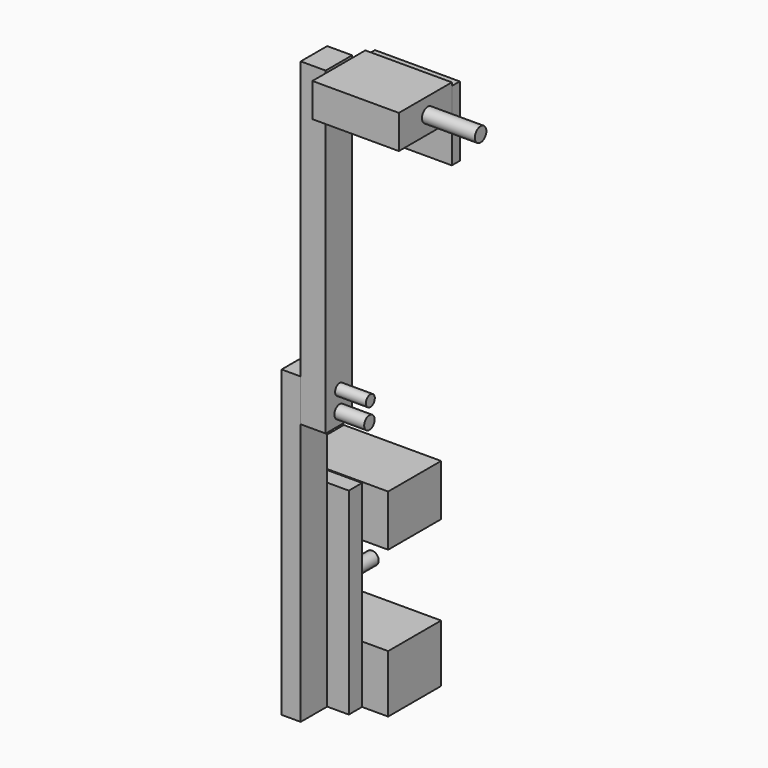
from build123d import *

# Parameters (mm, degrees)
F0_W      = 37.3197961599
F0_H      = 22.118806839
F2_DEPTH  = 25.4
F0_H_2    = 19.6611620486
F1_W      = 15.6561098993
F1_H      = 75.6408572197
F3_DEPTH  = 6.35
F7_W      = 20.2726237476
F7_H      = 2.7644485235
F6_W      = 33.1733580679
F6_H      = 12.9007548094
F9_DEPTH  = 12.7
F4_W      = 7.3194480501
F4_H      = 116.6530176997
F10_DEPTH = 12.7
F5_W      = 9.5603708178
F5_H      = 122.5571036339
F11_DEPTH = 12.7
F12_W     = 11.7970732972
F12_H     = 2.1449252963
F13_W     = 11.4395851269
F13_H     = 2.5024116039
F19_W     = 32.5313238427
F19_H     = 26.8115252256
F20_DEPTH = 3.81
F21_W     = 15.1931997389
F21_H     = 2.5024116039


with BuildPart() as f2:
    # F0 (on Front) → F2 (new body)
    with BuildSketch(Plane.XZ):
        with Locations((-0.3640959039, 11.0594034195)):
            Rectangle(F0_W, F0_H)
    extrude(amount=-F2_DEPTH)


with BuildPart() as f2b:
    # F0 (on Front) → F2, piece 2 (new body)
    with BuildSketch(Plane.XZ):
        with Locations((-0.3640959039, 66.174371168)):
            Rectangle(F0_W, F0_H_2)
    extrude(amount=-F2_DEPTH)


with BuildPart() as f3:
    # F1 (on Front) → F3 (new body)
    with BuildSketch(Plane.XZ):
        with Locations((0.4551196471, 37.8204286098)):
            Rectangle(F1_W, F1_H)
    extrude(amount=F3_DEPTH)

    # F21 (on Right) → F22 (revolve)
    with BuildSketch(Plane.YZ):
        with Locations((7.5965998694, 42.6899790764)):
            Rectangle(F21_W, F21_H)
    revolve(axis=Axis((0, 7.5965998694, 41.4387732744), (0, 1, 0)))


with BuildPart() as f8:
    # F7 (on Front) → F8 (revolve)
    with BuildSketch(Plane.XZ):
        with Locations((53.7915173918, 215.2351364493)):
            Rectangle(F7_W, F7_H)
    revolve(axis=Axis((53.7915173918, 0, 216.6173607111), (1, 0, 0)))


with BuildPart() as f9:
    # F6 (on Front) → F9 (new body, symmetric)
    with BuildSketch(Plane.XZ):
        with Locations((26.1470498517, 215.6958803535)):
            Rectangle(F6_W, F6_H)
    extrude(amount=F9_DEPTH, both=True)


with BuildPart() as f10:
    # F4 (on Front) → F10 (new body)
    with BuildSketch(Plane.XZ):
        with Locations((-3.6597240251, 58.3265088499)):
            Rectangle(F4_W, F4_H)
    extrude(amount=F10_DEPTH)


with BuildPart() as f11:
    # F5 (on Front) → F11 (new body)
    with BuildSketch(Plane.XZ):
        with Locations((4.7801854089, 161.7891788483)):
            Rectangle(F5_W, F5_H)
    extrude(amount=F11_DEPTH)


with BuildPart() as f14:
    # F12 (on Front) → F14 (revolve)
    with BuildSketch(Plane.XZ):
        with Locations((15.7294315286, 114.0086464584)):
            Rectangle(F12_W, F12_H)
    revolve(axis=Axis((15.7294315286, 0, 112.9361838102), (1, 0, 0)))


with BuildPart() as f15:
    # F13 (on Front) → F15 (revolve)
    with BuildSketch(Plane.XZ):
        with Locations((15.5506874435, 104.1777506471)):
            Rectangle(F13_W, F13_H)
    revolve(axis=Axis((15.5506874435, 0, 105.428956449), (1, 0, 0)))


with BuildPart() as f11_1:
    # F16: moved
    add(f11.part.moved(Location((0, -6.35, 0))))


with BuildPart() as f10_1:
    # F16: moved
    add(f10.part.moved(Location((0, -6.35, 0))))


with BuildPart() as f15_1:
    # F16: moved
    add(f15.part.moved(Location((0, -6.35, 0))))


with BuildPart() as f14_1:
    # F16: moved
    add(f14.part.moved(Location((0, -6.35, 0))))


with BuildPart() as f9_1:
    # F16: moved
    add(f9.part.moved(Location((0, -6.35, 0))))


with BuildPart() as f8_1:
    # F16: moved
    add(f8.part.moved(Location((0, -6.35, 0))))


with BuildPart() as f14_2:
    # F17: moved
    add(f14_1.part.moved(Location((0, -6.35, 0))))


with BuildPart() as f15_2:
    # F17: moved
    add(f15_1.part.moved(Location((0, -6.35, 0))))


with BuildPart() as f9_2:
    # F18: moved
    add(f9_1.part.moved(Location((0, -6.35, 0))))

    # F19 (on Front) → F20 (join)
    with BuildSketch(Plane.XZ):
        with Locations((26.4540412463, 207.4915096164)):
            Rectangle(F19_W, F19_H)
    extrude(amount=-F20_DEPTH)


with BuildPart() as f8_2:
    # F18: moved
    add(f8_1.part.moved(Location((0, -6.35, 0))))


solid = Compound([f2.part, f2b.part, f3.part, f11_1.part, f10_1.part, f14_2.part, f15_2.part, f9_2.part, f8_2.part])
